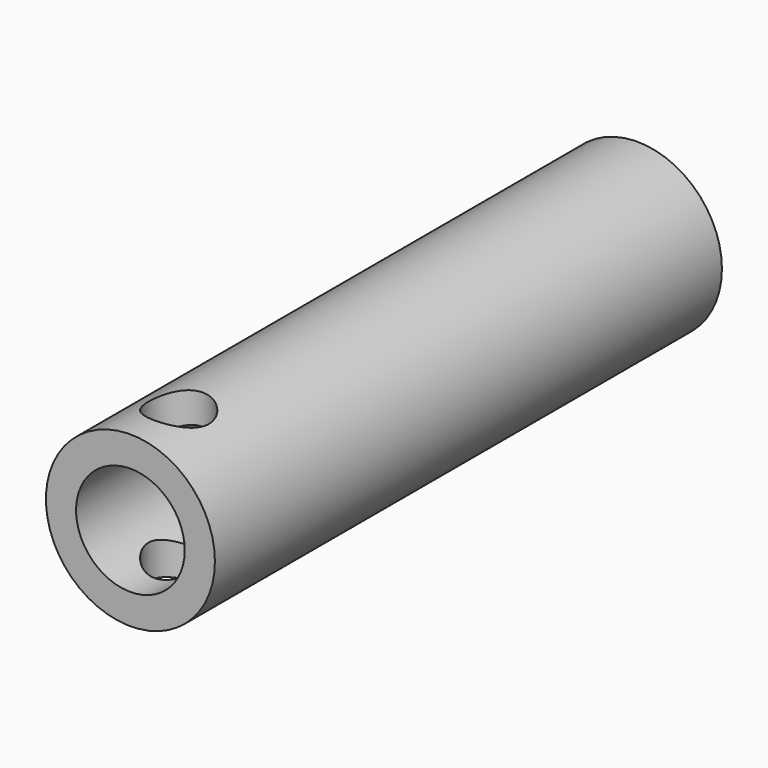
from build123d import *

# Parameters (mm, degrees)
F0_R     = 14
F0_R_2   = 9
F1_DEPTH = 105
F2_R     = 5
F3_DEPTH = 33.6


with BuildPart() as f1:
    # F0 (on Front) → F1 (new body)
    with BuildSketch(Plane.XZ):
        Circle(F0_R)
        Circle(F0_R_2, mode=Mode.SUBTRACT)
    extrude(amount=F1_DEPTH)

    # F2 (on Top) → F3 (cut, symmetric)
    with BuildSketch(Plane.XY):
        with Locations((0, -95)):
            Circle(F2_R)
    extrude(amount=F3_DEPTH, both=True, mode=Mode.SUBTRACT)


solid = f1.part
